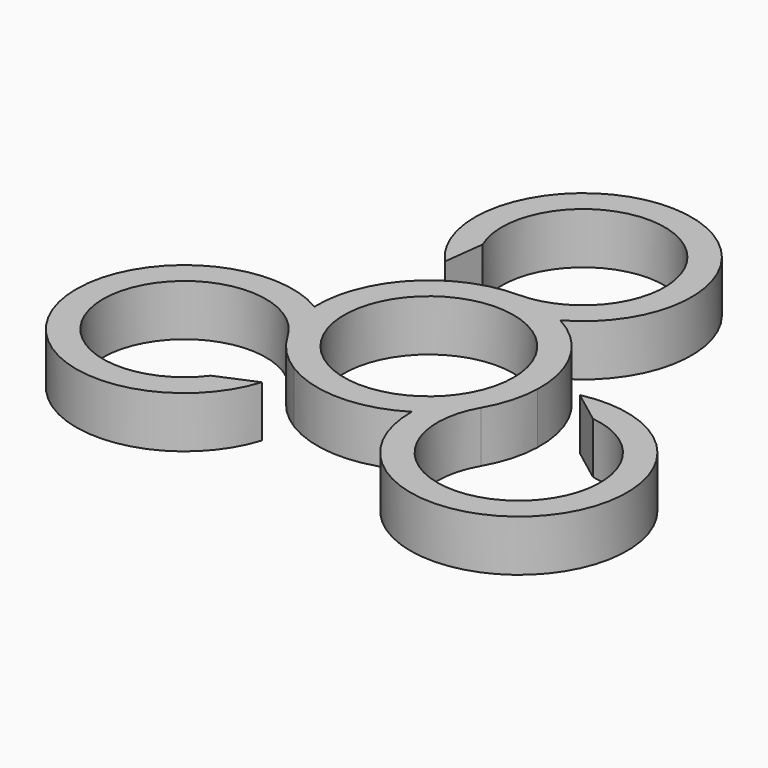
from build123d import *

# Parameters (mm, degrees)
F0_R     = 11.55
F1_DEPTH = 7


with BuildPart() as f1:
    # F0 (on Top) → F1 (new body)
    with BuildSketch(Plane.XY):
        with BuildLine():
            ThreePointArc((-10.193812, 21.927257), (6.101252, 35.592795), (0, 15.22))
            ThreePointArc((0, 15.22), (-3.704807, 14.762209), (-7.186746, 13.416373))
            ThreePointArc((-7.186746, 13.416373), (-13.180907, 7.61), (-15.212293, -0.484282))
            ThreePointArc((-15.212293, -0.484282), (-36.59975, -18.408649), (-8.706226, -17.597735))
            Line((-8.706226, -17.597735), (-13.892656, -19.791729))
            ThreePointArc((-13.892656, -19.791729), (-33.874891, -12.512558), (-13.180907, -7.61))
            ThreePointArc((-13.180907, -7.61), (-10.932044, -10.589562), (-8.025547, -12.932092))
            ThreePointArc((-8.025547, -12.932092), (0, -15.22), (8.025547, -12.932092))
            ThreePointArc((8.025547, -12.932092), (34.242233, -22.491989), (19.593199, 1.259054))
            Line((19.593199, 1.259054), (24.086468, -2.135528))
            ThreePointArc((24.086468, -2.135528), (27.773638, -23.080237), (13.180907, -7.61))
            ThreePointArc((13.180907, -7.61), (14.636851, -4.172647), (15.212293, -0.484282))
            ThreePointArc((15.212293, -0.484282), (13.180907, 7.61), (7.186746, 13.416373))
            ThreePointArc((7.186746, 13.416373), (2.357517, 40.900638), (-10.886972, 16.338681))
            Line((-10.886972, 16.338681), (-10.193812, 21.927257))
        make_face()
        Circle(F0_R, mode=Mode.SUBTRACT)
    extrude(amount=F1_DEPTH)


solid = f1.part
